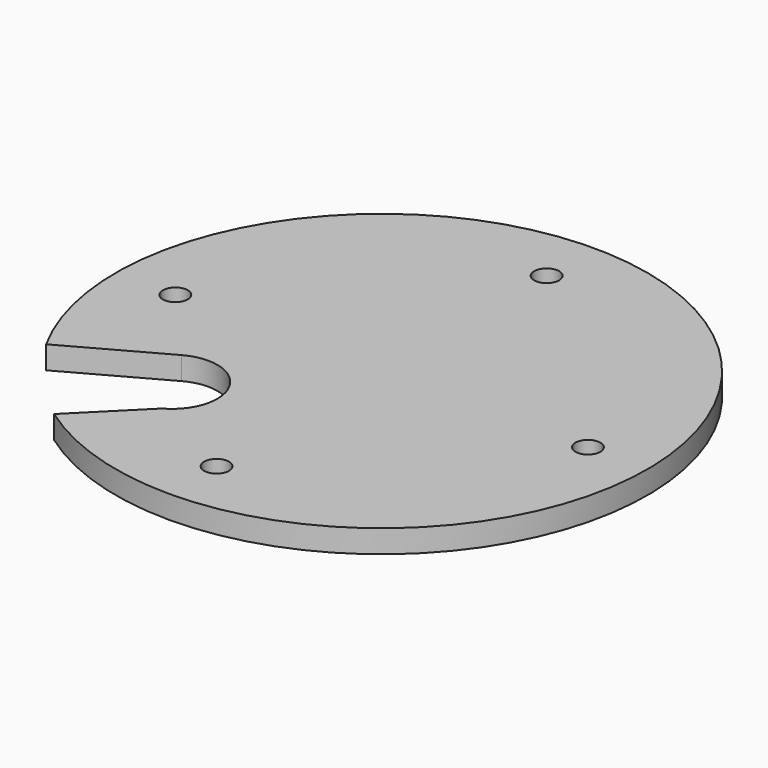
from build123d import *

# Parameters (mm, degrees)
F0_R     = 36.83
F1_DEPTH = 3.175
F3_D     = 3.4544
F3_DEPTH = 11.43
F3_TIP   = 1.0378064612
F4_R     = 6.35
F5_DEPTH = 3.176
F7_DEPTH = 3.176


with BuildPart() as f1:
    # F0 (on Top) → F1 (new body)
    with BuildSketch(Plane.XY):
        Circle(F0_R)
    extrude(amount=F1_DEPTH)

    # F3
    with Locations(Plane.XY.offset(3.175)):
        with Locations((-28.575, 0), (0, 28.575), (28.575, 0), (0, -28.575)):
            Hole(F3_D / 2, depth=F3_DEPTH)
            with Locations((0, 0, -(F3_DEPTH + F3_TIP / 2))):  # 118° drill point
                Cone(0, F3_D / 2, F3_TIP, mode=Mode.SUBTRACT)

    # F4 (on face) → F5 (cut, through all)
    with BuildSketch(Plane.XY.offset(3.175)):
        with Locations((-16.1644610179, -16.1644610179)):
            Circle(F4_R)
    extrude(amount=-F5_DEPTH, mode=Mode.SUBTRACT)

    # F6 (on face) → F7 (cut, through all)
    with BuildSketch(Plane.XY.offset(3.175)):
        Polygon((-10.6037825397, -19.2306239069), (-19.2306239069, -10.6037825397), (-32.2519351736, -17.7837447563), (-39.33729292, -25.7967901035), (-21.3696253197, -29.9964666869), align=None)
    extrude(amount=-F7_DEPTH, mode=Mode.SUBTRACT)


solid = f1.part
